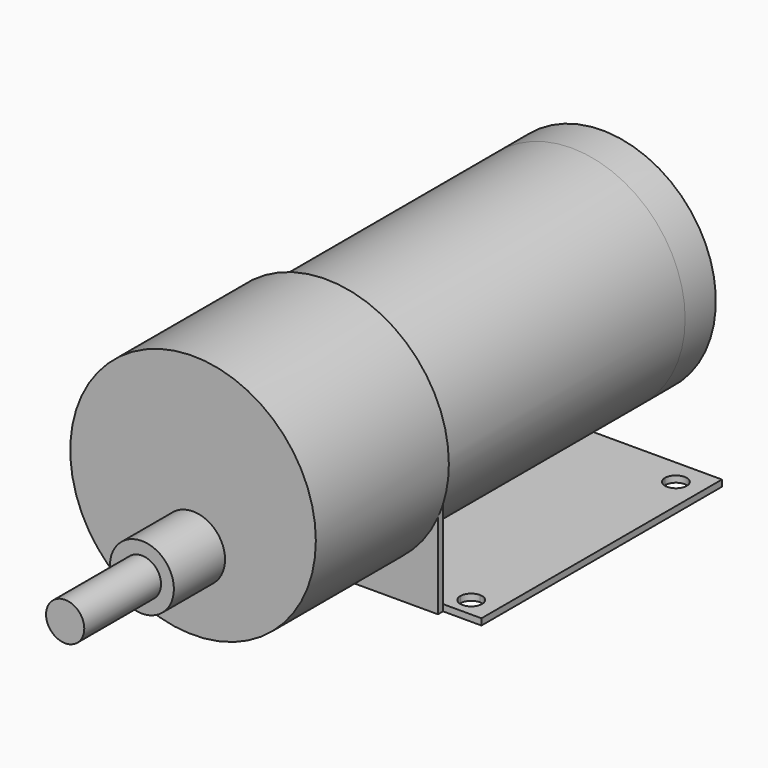
from build123d import *

# Parameters (mm, degrees)
F0_R      = 17.75
F1_DEPTH  = 47
F3_DEPTH  = 1
F4_W      = 47
F4_H      = 1
F5_DEPTH  = 47
F6_R      = 19.2
F7_DEPTH  = 26
F8_R      = 17.75
F9_DEPTH  = 6
F10_R     = 2.99
F11_DEPTH = 25
F12_R     = 5
F13_DEPTH = 10
F15_DEPTH = 1


with BuildPart() as f1:
    # F0 (on Front) → F1 (new body)
    with BuildSketch(Plane.XZ):
        Circle(F0_R)
    extrude(amount=F1_DEPTH)

    # F2 (on face) → F3 (join)
    with BuildSketch(Plane.XZ.offset(47)):
        with BuildLine():
            Line((17.5, -21.25), (17.5, 0))
            ThreePointArc((17.5, 0), (0, 17.5), (-17.5, 0))
            Line((-17.5, 0), (-17.5, -21.25))
            Line((-17.5, -21.25), (17.5, -21.25))
        make_face()
    extrude(amount=F3_DEPTH)

    # F4 (on face) → F5 (join)
    with BuildSketch(Plane(origin=(0, -47, 0), x_dir=(-1, 0, 0), z_dir=(0, 1, 0))):
        with Locations((0, -20.75)):
            Rectangle(F4_W, F4_H)
    extrude(amount=F5_DEPTH)

    # F6 (on face) → F7 (join)
    with BuildSketch(Plane.XZ.offset(48)):
        Circle(F6_R)
    extrude(amount=F7_DEPTH)

    # F8 (on face) → F9 (join)
    with BuildSketch(Plane(origin=(0, 0, 0), x_dir=(-1, 0, 0), z_dir=(0, 1, 0))):
        Circle(F8_R)
    extrude(amount=F9_DEPTH)

    # F10 (on face) → F11 (join)
    with BuildSketch(Plane.XZ.offset(74)):
        with Locations((0, -7.2)):
            Circle(F10_R)
    extrude(amount=F11_DEPTH)

    # F12 (on face) → F13 (join)
    with BuildSketch(Plane.XZ.offset(74)):
        with Locations((0, -7.2)):
            Circle(F12_R)
    extrude(amount=F13_DEPTH)

    # F14 (on face) → F15 (cut, through all)
    with BuildSketch(Plane(origin=(0, 0, -21.25), x_dir=(1, 0, 0), z_dir=(0, 0, -1))):
        with BuildLine():
            ThreePointArc((19.5, 5.7), (18.297918, 5.202082), (17.8, 4))
            Line((17.8, 4), (19.5, 4))
            Line((19.5, 4), (19.5, 5.7))
        make_face()
        with BuildLine():
            Line((19.5, 4), (17.8, 4))
            ThreePointArc((17.8, 4), (19.5, 2.3), (21.2, 4))
            ThreePointArc((21.2, 4), (20.702082, 5.202082), (19.5, 5.7))
            Line((19.5, 5.7), (19.5, 4))
        make_face()
        with BuildLine():
            Line((-19.5, 4), (-17.8, 4))
            ThreePointArc((-17.8, 4), (-18.297918, 5.202082), (-19.5, 5.7))
            Line((-19.5, 5.7), (-19.5, 4))
        make_face()
        with BuildLine():
            ThreePointArc((-19.5, 5.7), (-20.702082, 2.797918), (-17.8, 4))
            Line((-17.8, 4), (-19.5, 4))
            Line((-19.5, 4), (-19.5, 5.7))
        make_face()
        with BuildLine():
            ThreePointArc((21.2, 44), (19.5, 45.7), (17.8, 44))
            Line((17.8, 44), (19.5, 44))
            Line((19.5, 44), (19.5, 42.3))
            ThreePointArc((19.5, 42.3), (20.702082, 42.797918), (21.2, 44))
        make_face()
        with BuildLine():
            Line((-19.5, 44), (-17.8, 44))
            ThreePointArc((-17.8, 44), (-20.702082, 45.202082), (-19.5, 42.3))
            Line((-19.5, 42.3), (-19.5, 44))
        make_face()
        with BuildLine():
            ThreePointArc((-19.5, 42.3), (-18.297918, 42.797918), (-17.8, 44))
            Line((-17.8, 44), (-19.5, 44))
            Line((-19.5, 44), (-19.5, 42.3))
        make_face()
        with BuildLine():
            Line((19.5, 44), (17.8, 44))
            ThreePointArc((17.8, 44), (18.297918, 42.797918), (19.5, 42.3))
            Line((19.5, 42.3), (19.5, 44))
        make_face()
    extrude(amount=-F15_DEPTH, mode=Mode.SUBTRACT)


solid = f1.part
